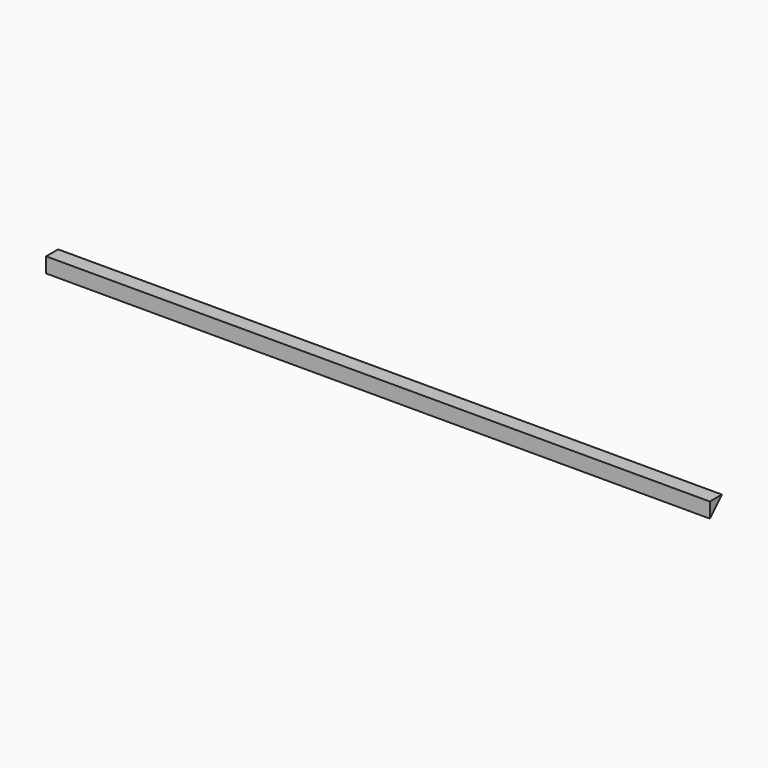
from build123d import *

# Parameters (mm, degrees)
BOX008_W        = 44
BOX008_H        = 1
BOX008_DEPTH    = 1
BOX007_W        = 44
BOX007_H        = 1
BOX007_DEPTH    = 2
BOX006_W        = 44
BOX006_H        = 2
BOX006_DEPTH    = 2
CHAMFER006_SIZE = 1


with BuildPart() as cube007:
    # Box008 → Box008 (new body)
    with BuildSketch(Plane(origin=(-4, 8, 22), x_dir=(1, 0, 0), z_dir=(0, 0, 1))):
        with Locations((22, 0.5)):
            Rectangle(BOX008_W, BOX008_H)
    extrude(amount=BOX008_DEPTH)


with BuildPart() as cube006:
    # Box007 → Box007 (new body)
    with BuildSketch(Plane(origin=(-4, 7, 21), x_dir=(1, 0, 0), z_dir=(0, 0, 1))):
        with Locations((22, 0.5)):
            Rectangle(BOX007_W, BOX007_H)
    extrude(amount=BOX007_DEPTH)


with BuildPart() as obj1:
    # Box006 → Box006 (new body)
    with BuildSketch(Plane(origin=(-4, 7, 21), x_dir=(1, 0, 0), z_dir=(0, 0, 1))):
        with Locations((22, 1)):
            Rectangle(BOX006_W, BOX006_H)
    extrude(amount=BOX006_DEPTH)

    # Chamfer006
    chamfer006_edges = [obj1.edges().sort_by_distance(p)[0] for p in [
        (18, 9, 21),
    ]]
    chamfer(chamfer006_edges, length=CHAMFER006_SIZE)

    # Cut013002: cut Cube006
    add(cube006.part, mode=Mode.SUBTRACT)

    # Cut013003: cut Cube007
    add(cube007.part, mode=Mode.SUBTRACT)


solid = obj1.part
